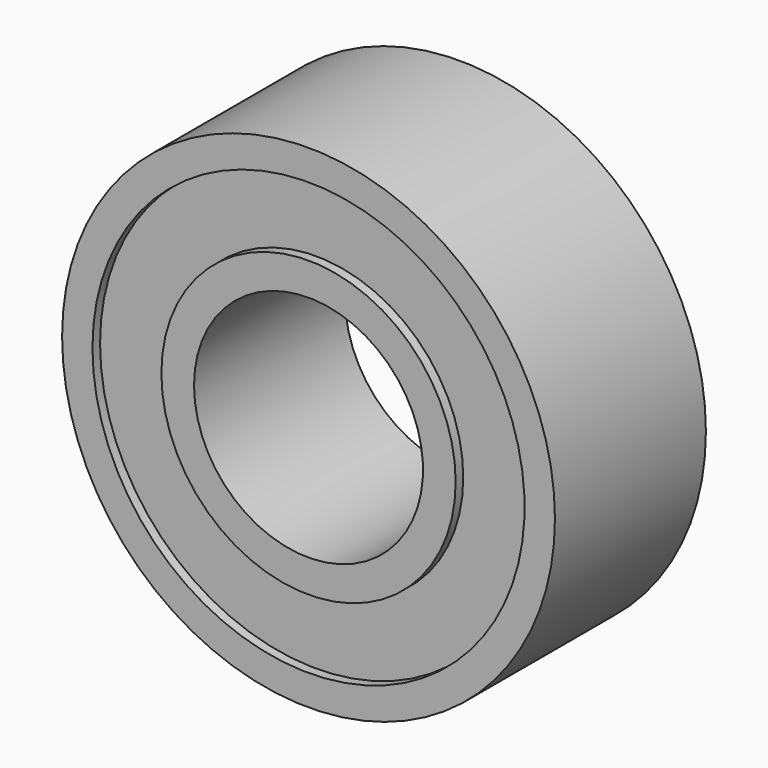
from build123d import *


with BuildPart() as f1:
    # F0 (on Top) → F1 (revolve)
    with BuildSketch(Plane.XY):
        Polygon((-6.49, 2.485), (-6.49, 0), (-6.49, -2.485), (-5.69, -2.485), (-5.69, -2.235), (-5.69, 0), (-5.69, 2.235), (-5.69, 2.485), align=None)
        Polygon((-3.875, 2.235), (-5.69, 2.235), (-5.69, 0), (-5.69, -2.235), (-3.875, -2.235), (-3.875, 0), align=None)
        Polygon((-3.875, 2.485), (-3.875, 2.235), (-3.875, 0), (-3.875, -2.235), (-3.875, -2.485), (-3.015, -2.485), (-3.015, 0), (-3.015, 2.485), align=None)
    revolve(axis=Axis((0, 2.798411, 0), (0, -1, 0)))


solid = f1.part
